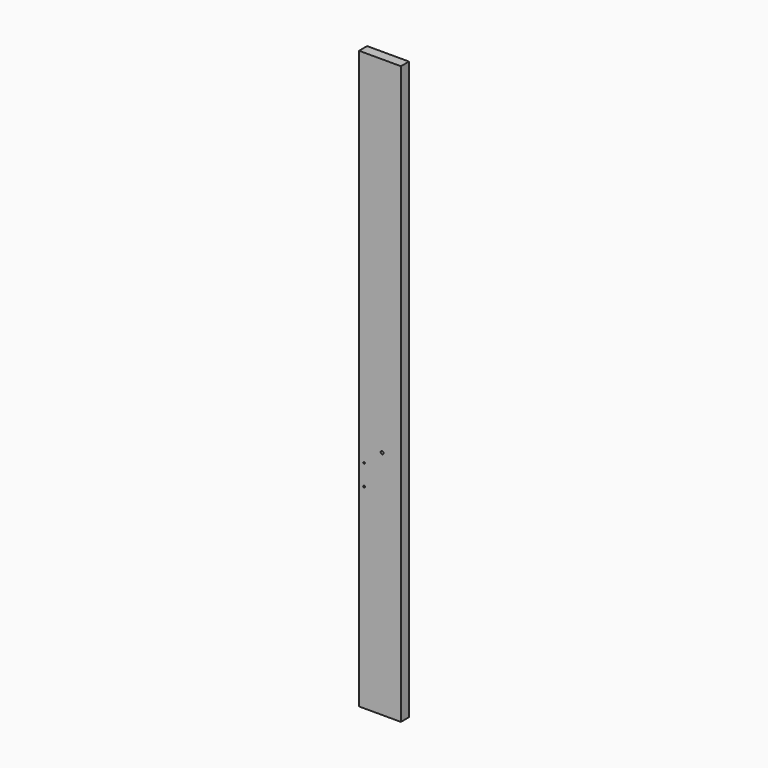
from build123d import *

# Parameters (mm, degrees)
F0_W     = 145
F0_H     = 2000
F1_DEPTH = 35
F2_R     = 5
F3_DEPTH = 35.001
F4_R     = 3
F5_DEPTH = 35.001


with BuildPart() as f1:
    # F0 (on Front) → F1 (new body)
    with BuildSketch(Plane.XZ):
        with Locations((72.5, 1000)):
            Rectangle(F0_W, F0_H)
    extrude(amount=-F1_DEPTH)

    # F2 (on face) → F3 (cut, through all)
    with BuildSketch(Plane.XZ):
        with Locations((80, 800)):
            Circle(F2_R)
    extrude(amount=-F3_DEPTH, mode=Mode.SUBTRACT)

    # F4 (on face) → F5 (cut, through all)
    with BuildSketch(Plane.XZ):
        with Locations((17.5, 676.25)):
            Circle(F4_R)
        with Locations((17.5, 748.75)):
            Circle(F4_R)
    extrude(amount=-F5_DEPTH, mode=Mode.SUBTRACT)


solid = f1.part
